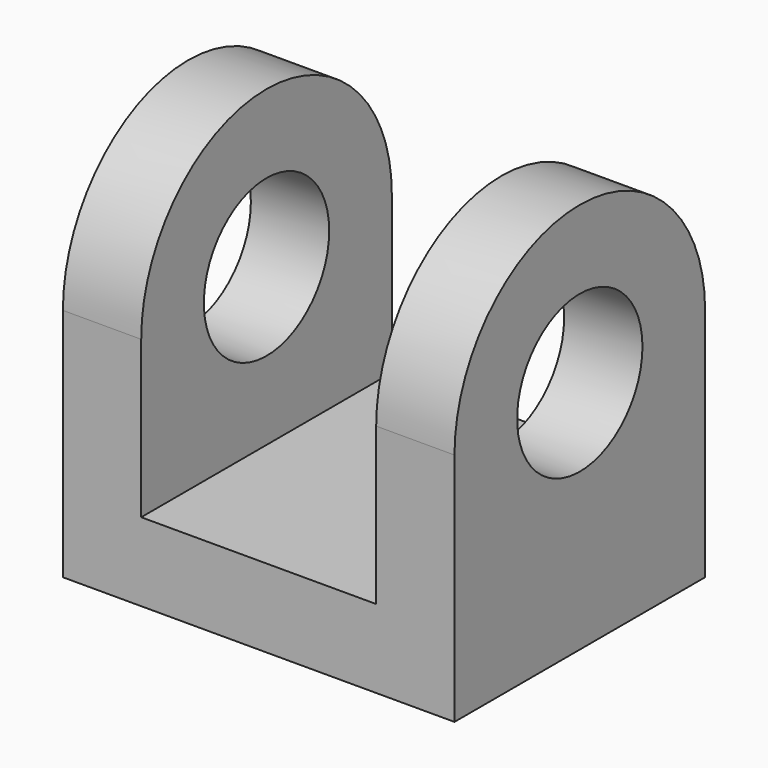
from build123d import *

# Parameters (mm, degrees)
F1_DEPTH = 5
F2_W     = 3
F2_H     = 4
F3_DEPTH = 4
F4_R     = 1
F5_DEPTH = 5


with BuildPart() as f1:
    # F0 (on Right) → F1 (new body)
    with BuildSketch(Plane.YZ):
        with BuildLine():
            Line((0, 3), (0, 0))
            Line((0, 0), (4, 0))
            Line((4, 0), (4, 3))
            ThreePointArc((4, 3), (2, 5), (0, 3))
        make_face()
    extrude(amount=F1_DEPTH)

    # F2 (on face) → F3 (cut)
    with BuildSketch(Plane.XZ):
        with Locations((2.5, 3)):
            Rectangle(F2_W, F2_H)
    extrude(amount=-F3_DEPTH, mode=Mode.SUBTRACT)

    # F4 (on face) → F5 (cut)
    with BuildSketch(Plane.YZ.offset(5)):
        with Locations((2, 3)):
            Circle(F4_R)
    extrude(amount=-F5_DEPTH, mode=Mode.SUBTRACT)


solid = f1.part
